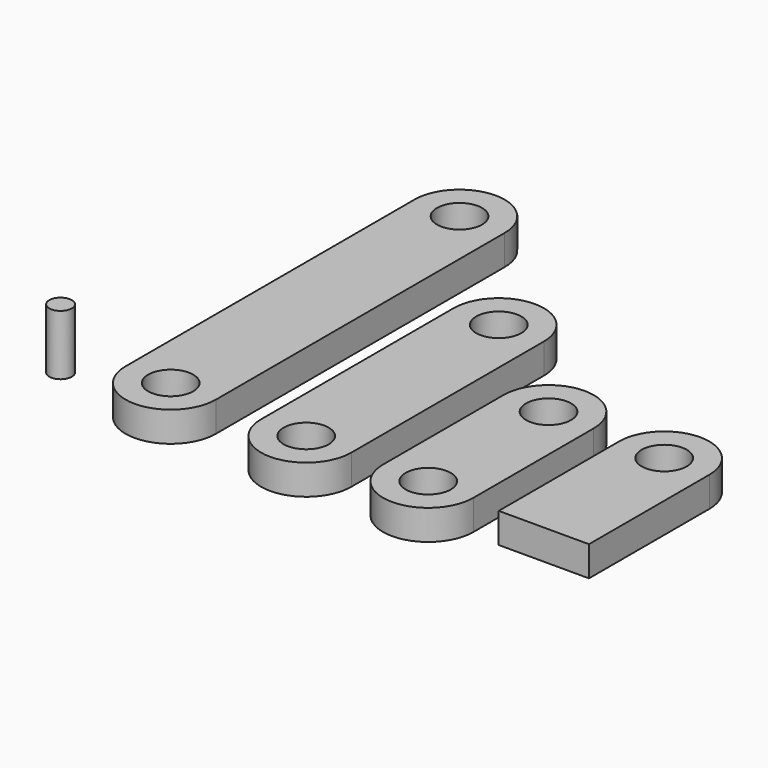
from build123d import *

# Parameters (mm, degrees)
F1_R      = 7.5
F2_DEPTH  = 10
F3_R      = 7.5
F4_DEPTH  = 10
F5_R      = 7.5
F6_DEPTH  = 10
F7_R      = 7.5
F8_DEPTH  = 10
F9_R      = 3.75
F10_DEPTH = 20


with BuildPart() as f2:
    # F1 (on Top) → F2 (new body)
    with BuildSketch(Plane.XY):
        with BuildLine():
            Line((0, 50), (0, 0))
            Line((0, 0), (30, 0))
            Line((30, 0), (30, 50))
            ThreePointArc((30, 50), (15, 65), (0, 50))
        make_face()
        with Locations((15, 50)):
            Circle(F1_R, mode=Mode.SUBTRACT)
    extrude(amount=F2_DEPTH)


with BuildPart() as f4:
    # F3 (on Top) → F4 (new body)
    with BuildSketch(Plane.XY):
        with BuildLine():
            Line((-39.7190231457, 51.6017495219), (-39.7190231457, 1.6017495219))
            ThreePointArc((-39.7190231457, 1.6017495219), (-24.7190231457, -13.3982504781), (-9.7190231457, 1.6017495219))
            Line((-9.7190231457, 1.6017495219), (-9.7190231457, 51.6017495219))
            ThreePointArc((-9.7190231457, 51.6017495219), (-24.7190231457, 66.6017495219), (-39.7190231457, 51.6017495219))
        make_face()
        with Locations((-24.7190231457, 1.6017495219)):
            Circle(F3_R, mode=Mode.SUBTRACT)
        with Locations((-24.7190231457, 51.6017495219)):
            Circle(F3_R, mode=Mode.SUBTRACT)
    extrude(amount=F4_DEPTH)


with BuildPart() as f6:
    # F5 (on Top) → F6 (new body)
    with BuildSketch(Plane.XY):
        with BuildLine():
            Line((-80.3273612261, 81.6679674387), (-80.3273612261, 1.6679674387))
            ThreePointArc((-80.3273612261, 1.6679674387), (-65.3273612261, -13.3320325613), (-50.3273612261, 1.6679674387))
            Line((-50.3273612261, 1.6679674387), (-50.3273612261, 81.6679674387))
            ThreePointArc((-50.3273612261, 81.6679674387), (-65.3273612261, 96.6679674387), (-80.3273612261, 81.6679674387))
        make_face()
        with Locations((-65.3273612261, 1.6679674387)):
            Circle(F5_R, mode=Mode.SUBTRACT)
        with Locations((-65.3273612261, 81.6679674387)):
            Circle(F5_R, mode=Mode.SUBTRACT)
    extrude(amount=F6_DEPTH)


with BuildPart() as f8:
    # F7 (on Top) → F8 (new body)
    with BuildSketch(Plane.XY):
        with BuildLine():
            Line((-126.3912388682, 122.9525510035), (-126.3912388682, 2.9525510035))
            ThreePointArc((-126.3912388682, 2.9525510035), (-111.3912388682, -12.0474489965), (-96.3912388682, 2.9525510035))
            Line((-96.3912388682, 2.9525510035), (-96.3912388682, 122.9525510035))
            ThreePointArc((-96.3912388682, 122.9525510035), (-111.3912388682, 137.9525510035), (-126.3912388682, 122.9525510035))
        make_face()
        with Locations((-111.3912388682, 2.9525510035)):
            Circle(F7_R, mode=Mode.SUBTRACT)
        with Locations((-111.3912388682, 122.9525510035)):
            Circle(F7_R, mode=Mode.SUBTRACT)
    extrude(amount=F8_DEPTH)


with BuildPart() as f10:
    # F9 (on Top) → F10 (new body)
    with BuildSketch(Plane.XY):
        with Locations((-149.3688076735, 4.637687467)):
            Circle(F9_R)
    extrude(amount=F10_DEPTH)


solid = Compound([f2.part, f4.part, f6.part, f8.part, f10.part])
